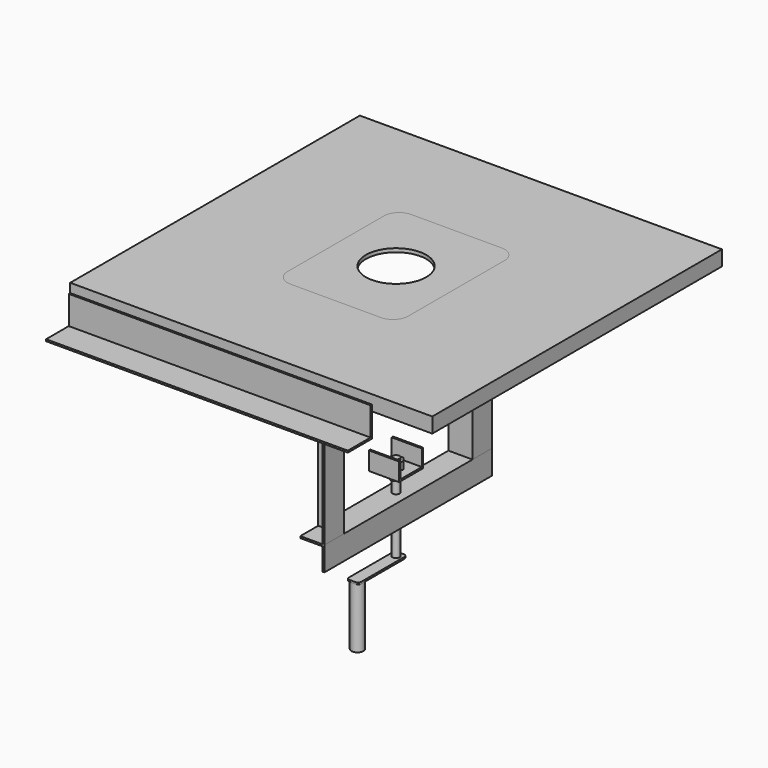
from build123d import *

# Parameters (mm, degrees)
F0_W           = 600
F0_H           = 600
F1_DEPTH       = 25
F3_DEPTH       = 500
F5_DEPTH       = 400
F6_R           = 50
F7_DEPTH       = 6
F10_DEPTH      = 65.001
F11_W          = 100
F11_H          = 50
F12_DEPTH      = 5
F14_DEPTH      = 300
F17_DEPTH      = 37
F17_DEPTH_BACK = 309.7471036047
F19_DEPTH      = 12
F20_R          = 6
F21_DEPTH      = 78
F21_DEPTH_BACK = 66
F22_W          = 20
F22_H          = 100
F23_DEPTH      = 3
F24_R          = 5
F25_R          = 10
F26_DEPTH      = 100
F28_DEPTH      = 25
F29_R          = 6
F30_DEPTH      = 12
F31_R          = 6
F32_DEPTH      = 12


with BuildPart() as f1:
    # F0 (on Top) → F1 (new body)
    with BuildSketch(Plane.XY):
        Rectangle(F0_W, F0_H)
    extrude(amount=-F1_DEPTH)


with BuildPart() as f3:
    # F2 (on face) → F3 (new body)
    with BuildSketch(Plane(origin=(-300, 0, 0), x_dir=(0, -1, 0), z_dir=(-1, 0, 0))):
        Polygon((303, -15), (300, -15), (300, -65), (350, -65), (350, -62), (303, -62), align=None)
    extrude(amount=-F3_DEPTH)


with BuildPart() as f5:
    # F4 (on face) → F5 (new body)
    with BuildSketch(Plane(origin=(-300, 0, 0), x_dir=(0, -1, 0), z_dir=(-1, 0, 0))):
        Polygon((-300, -65), (-300, -15), (-303, -15), (-303, -62), (-340, -62), (-340, -65), align=None)
    extrude(amount=-F5_DEPTH)


with BuildPart() as f7:
    # F6 (on face) → F7 (new body)
    with BuildSketch(Plane.XY):
        with BuildLine():
            ThreePointArc((100, 100), (92.6776695297, 117.6776695297), (75, 125))
            Line((75, 125), (-75, 125))
            ThreePointArc((-75, 125), (-92.6776695297, 117.6776695297), (-100, 100))
            Line((-100, 100), (-100, -100))
            ThreePointArc((-100, -100), (-92.6776695297, -117.6776695297), (-75, -125))
            Line((-75, -125), (75, -125))
            ThreePointArc((75, -125), (92.6776695297, -117.6776695297), (100, -100))
            Line((100, -100), (100, 100))
        make_face()
        Circle(F6_R, mode=Mode.SUBTRACT)
    extrude(amount=-F7_DEPTH)


with BuildPart() as f1_1:
    add(f1.part)

    # F8: cut F7
    add(f7.part, mode=Mode.SUBTRACT)

    # F9 (on face) → F10 (cut, through all)
    with BuildSketch(Plane.XY):
        with BuildLine():
            ThreePointArc((85, 85), (77.6776695297, 102.6776695297), (60, 110))
            Line((60, 110), (-60, 110))
            ThreePointArc((-60, 110), (-77.6776695297, 102.6776695297), (-85, 85))
            Line((-85, 85), (-85, -85))
            ThreePointArc((-85, -85), (-77.6776695297, -102.6776695297), (-60, -110))
            Line((-60, -110), (60, -110))
            ThreePointArc((60, -110), (77.6776695297, -102.6776695297), (85, -85))
            Line((85, -85), (85, 85))
        make_face()
    extrude(amount=-F10_DEPTH, mode=Mode.SUBTRACT)


with BuildPart() as f12:
    # F11 (on face) → F12 (new body)
    with BuildSketch(Plane(origin=(0, 0, -25), x_dir=(1, 0, 0), z_dir=(0, 0, -1))):
        with Locations((0, 153.3735518024)):
            Rectangle(F11_W, F11_H)
    extrude(amount=F12_DEPTH)


with BuildPart() as f12b:
    # F11 (on face) → F12, piece 2 (new body)
    with BuildSketch(Plane(origin=(0, 0, -25), x_dir=(1, 0, 0), z_dir=(0, 0, -1))):
        with Locations((0, -153.3735518024)):
            Rectangle(F11_W, F11_H)
    extrude(amount=F12_DEPTH)


with BuildPart() as f14:
    # F13 (on face) → F14 (new body)
    with BuildSketch(Plane(origin=(0, 0, -30), x_dir=(1, 0, 0), z_dir=(0, 0, -1))):
        Polygon((20, 133.3735518024), (20, 173.3735518024), (17, 173.3735518024), (17, 136.3735518024), (-20, 136.3735518024), (-20, 133.3735518024), align=None)
    extrude(amount=F14_DEPTH)


with BuildPart() as f15_1:
    # F15: instance of F14
    add(f14.part.mirror(Plane.XZ))


with BuildPart() as f17:
    # F16 (on face) → F17 (new body, two sides)
    with BuildSketch(Plane.XZ.offset(136.3735518024)) as f17_sk:
        Polygon((17, -370), (20, -370), (20, -330), (-20, -330), (-20, -333), (17, -333), align=None)
    extrude(amount=F17_DEPTH)
    extrude(f17_sk.sketch, amount=-F17_DEPTH_BACK)


with BuildPart() as f19:
    # F18 (on face) → F19 (new body)
    with BuildSketch(Plane(origin=(0, 0, -333), x_dir=(1, 0, 0), z_dir=(0, 0, -1))):
        Polygon((-10.1260223218, -4.2186496976), (-1.4095533531, -10.8787174188), (8.7164689687, -6.6600677212), (10.1260223218, 4.2186496976), (1.4095533531, 10.8787174188), (-8.7164689687, 6.6600677212), align=None)
    extrude(amount=F19_DEPTH)


with BuildPart() as f21:
    # F20 (on face) → F21 (new body, two sides)
    with BuildSketch(Plane(origin=(0, 0, -345), x_dir=(1, 0, 0), z_dir=(0, 0, -1))) as f21_sk:
        Circle(F20_R)
    extrude(amount=F21_DEPTH)
    extrude(f21_sk.sketch, amount=-F21_DEPTH_BACK)


with BuildPart() as f23:
    # F22 (on face) → F23 (new body)
    with BuildSketch(Plane(origin=(0, 0, -423), x_dir=(1, 0, 0), z_dir=(0, 0, -1))):
        with Locations((0, 40)):
            Rectangle(F22_W, F22_H)
    extrude(amount=F23_DEPTH)

    # F24
    f24_edges = [f23.edges().sort_by_distance(p)[0] for p in [
        (-10, -90, -424.5),
        (10, -90, -424.5),
        (10, 10, -424.5),
        (-10, 10, -424.5),
    ]]
    fillet(f24_edges, radius=F24_R)


with BuildPart() as f26:
    # F25 (on face) → F26 (new body)
    with BuildSketch(Plane(origin=(0, 0, -426), x_dir=(1, 0, 0), z_dir=(0, 0, -1))):
        with Locations((0, 80)):
            Circle(F25_R)
    extrude(amount=F26_DEPTH)


with BuildPart() as f28:
    # F27 (on Right) → F28 (new body, symmetric)
    with BuildSketch(Plane.YZ):
        Polygon((-22, -267), (-25, -267), (-25, -297), (25, -297), (25, -267), (22, -267), (22, -294), (-22, -294), align=None)
    extrude(amount=F28_DEPTH, both=True)


with BuildPart() as f30:
    # F29 (on face) → F30 (new body)
    with BuildSketch(Plane.XY.offset(-294)):
        Polygon((10.8965147313, 1.2646343518), (4.3530518905, 10.0689757459), (-6.5434628408, 8.8043413941), (-10.8965147313, -1.2646343518), (-4.3530518905, -10.0689757459), (6.5434628408, -8.8043413941), align=None)
        Circle(F29_R, mode=Mode.SUBTRACT)
    extrude(amount=F30_DEPTH)


with BuildPart() as f32:
    # F31 (on face) → F32 (new body)
    with BuildSketch(Plane(origin=(0, 0, -297), x_dir=(1, 0, 0), z_dir=(0, 0, -1))):
        Polygon((-10.0127647663, -4.4808341934), (-1.1258661415, -10.9117257464), (8.8868986248, -6.430891553), (10.0127647663, 4.4808341934), (1.1258661415, 10.9117257464), (-8.8868986248, 6.430891553), align=None)
        Circle(F31_R, mode=Mode.SUBTRACT)
    extrude(amount=F32_DEPTH)


solid = Compound([f3.part, f5.part, f7.part, f1_1.part, f12.part, f12b.part, f14.part, f15_1.part, f17.part, f19.part, f21.part, f23.part, f26.part, f28.part, f30.part, f32.part])
